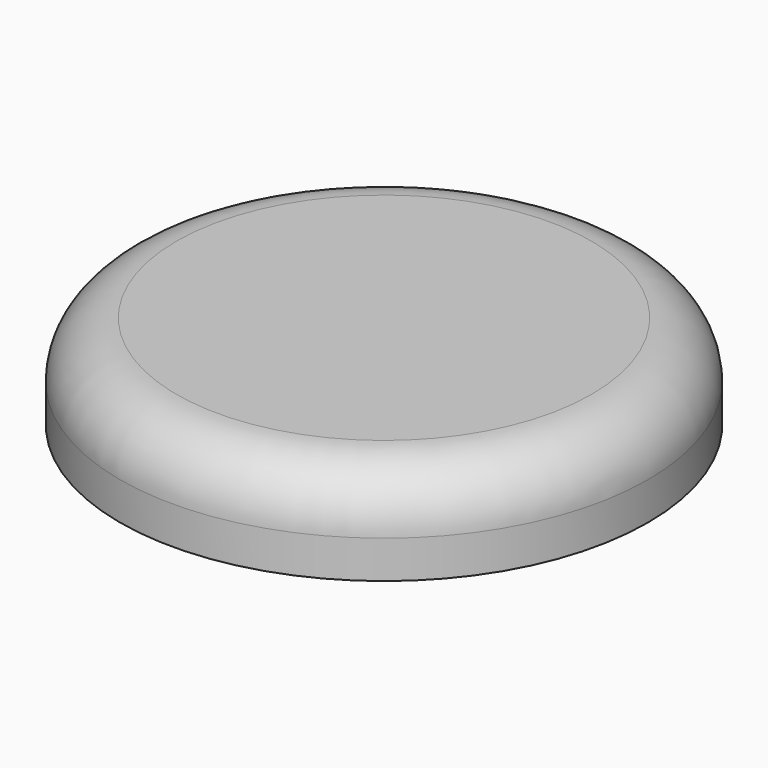
from build123d import *

# Parameters (mm, degrees)
CYLINDER085_R     = 1
CYLINDER085_DEPTH = 3.5
CYLINDER087_R     = 2
CYLINDER087_DEPTH = 3.5
CYLINDER086_R     = 7
CYLINDER086_DEPTH = 2.5
FILLET053_R       = 1.5


with BuildPart() as cylinder166:
    # Cylinder085 → Cylinder085 (new body)
    with BuildSketch(Plane(origin=(46, -9, 6), x_dir=(1, 0, 0), z_dir=(0, 0, 1))):
        Circle(CYLINDER085_R)
    extrude(amount=CYLINDER085_DEPTH)


with BuildPart() as cut110:
    # Cylinder087 → Cylinder087 (new body)
    with BuildSketch(Plane(origin=(46, -9, 6), x_dir=(1, 0, 0), z_dir=(0, 0, 1))):
        Circle(CYLINDER087_R)
    extrude(amount=CYLINDER087_DEPTH)

    # Cut110: cut Cylinder166
    add(cylinder166.part, mode=Mode.SUBTRACT)


with BuildPart() as fusion065:
    # Cylinder086 → Cylinder086 (new body)
    with BuildSketch(Plane(origin=(46, -9, 8), x_dir=(1, 0, 0), z_dir=(0, 0, 1))):
        Circle(CYLINDER086_R)
    extrude(amount=CYLINDER086_DEPTH)

    # Fillet053
    fillet053_edges = [fusion065.edges().sort_by_distance(p)[0] for p in [
        (39, -9, 10.5),
    ]]
    fillet(fillet053_edges, radius=FILLET053_R)

    # Fusion065: union Cut110
    add(cut110.part)


solid = fusion065.part
